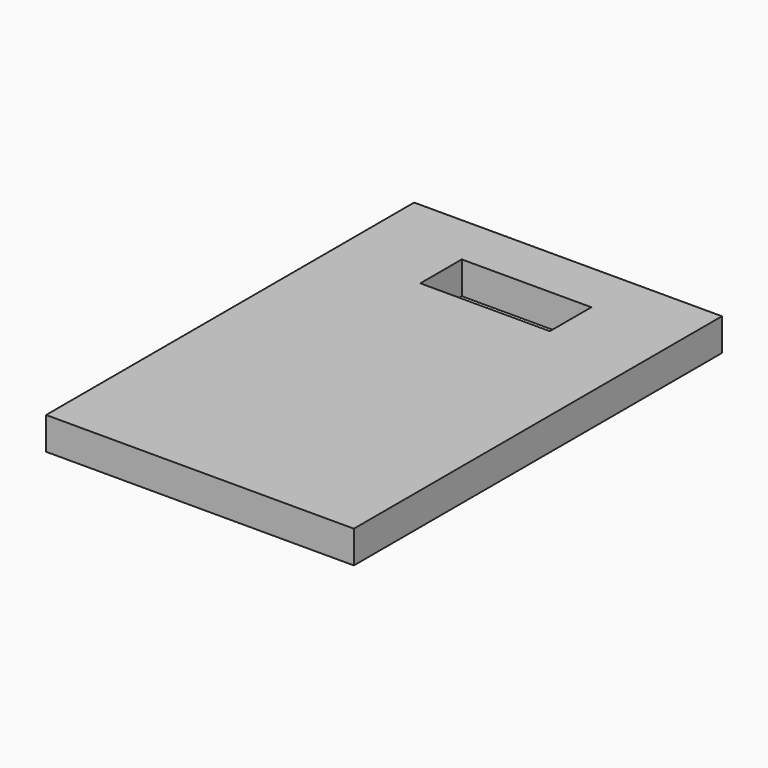
from build123d import *

# Parameters (mm, degrees)
SKETCH_W      = 95
SKETCH_H      = 142
SKETCH_W_2    = 40
SKETCH_H_2    = 16
EXTRUDE_DEPTH = 10


with BuildPart() as part:
    # Sketch → Extrude (new body)
    with BuildSketch(Plane.XY):
        with Locations((0, -71)):
            Rectangle(SKETCH_W, SKETCH_H)
        with Locations((0, -24)):
            Rectangle(SKETCH_W_2, SKETCH_H_2, mode=Mode.SUBTRACT)
    extrude(amount=EXTRUDE_DEPTH)


solid = part.part
